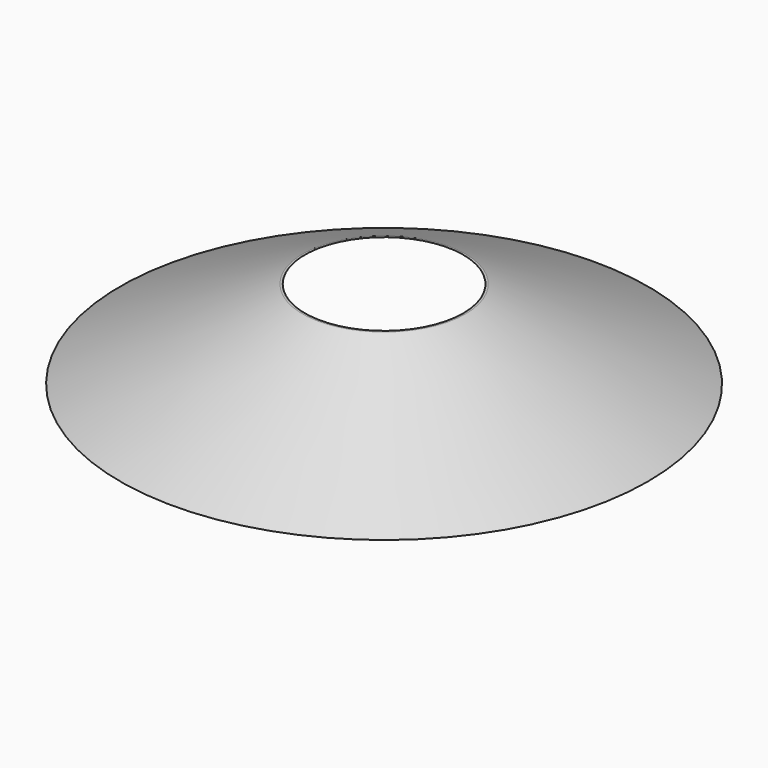
from build123d import *


with BuildPart() as part:
    # Sketch → Revolution (revolve)
    with BuildSketch(Plane.XZ):
        Polygon((900, 0), (2975, -1000), (3000, -1000), (925, 0), align=None)
    revolve(axis=Axis((0, 0, 0), (0, 0, 1)))


solid = part.part
